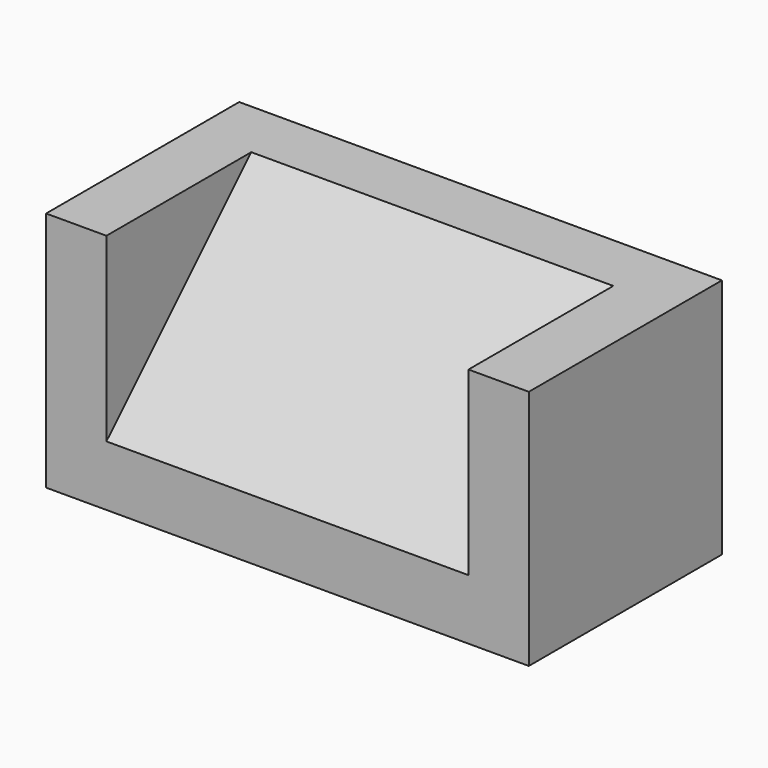
from build123d import *

# Parameters (mm, degrees)
F0_W     = 203.2
F0_H     = 101.6
F1_DEPTH = 101.6
F2_W     = 152.4
F2_H     = 76.2
F3_DEPTH = 76.2
F5_DEPTH = 127
F6_DEPTH = 25.4


with BuildPart() as f1:
    # F0 (on Top) → F1 (new body)
    with BuildSketch(Plane.XY):
        with Locations((18.4809279799, 33.9335563213)):
            Rectangle(F0_W, F0_H)
    extrude(amount=F1_DEPTH)

    # F2 (on face) → F3 (cut)
    with BuildSketch(Plane.XY.offset(101.6)):
        with Locations((18.4809279799, 21.2335563213)):
            Rectangle(F2_W, F2_H)
    extrude(amount=-F3_DEPTH, mode=Mode.SUBTRACT)

    # F4 (on face) → F5 (join)
    with BuildSketch(Plane.YZ.offset(-57.7190720201)):
        Polygon((59.3335563213, 101.6), (-16.8664436787, 25.4), (59.3335563213, 25.4), align=None)
    extrude(amount=F5_DEPTH)

    # F6 (add): a face of the model
    f6_faces = [f1.faces().sort_by_distance(p)[0] for p in [
        (69.2809279799, 33.9335563213, 50.8),
    ]]
    extrude(f6_faces, amount=F6_DEPTH)


solid = f1.part
